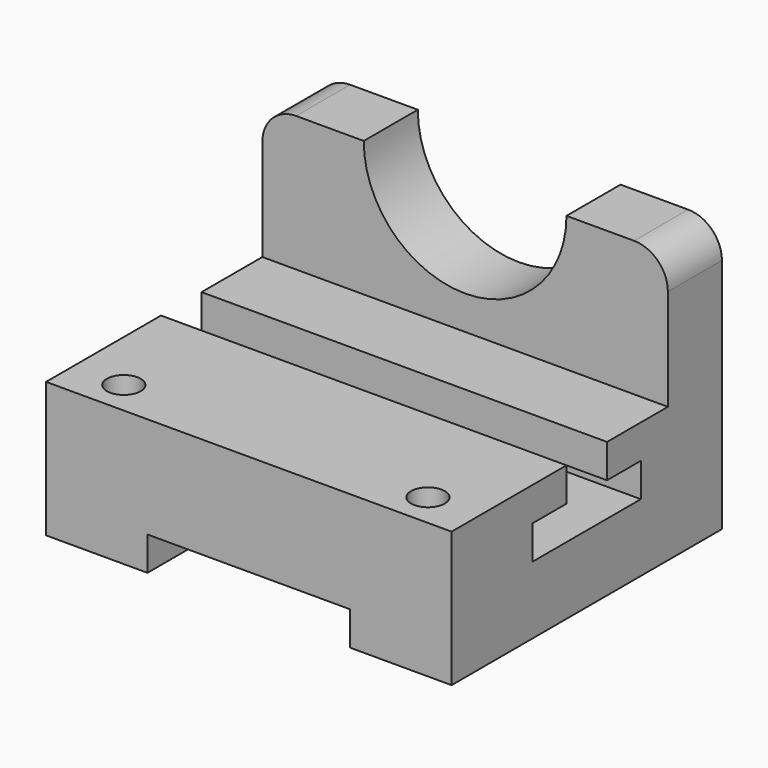
from build123d import *

# Parameters (mm, degrees)
F1_DEPTH  = 152.4
F0_W      = 25.4
F0_H      = 50.8
F2_DEPTH  = 152.4
F3_R      = 12.7
F4_R      = 12.7
F5_W      = 76.2
F5_H      = 12.7
F6_DEPTH  = 127.001
F8_DEPTH  = 152.4
F9_R      = 6.35
F10_DEPTH = 152.4


with BuildPart() as f1:
    # F0 (on Right) → F1 (new body)
    with BuildSketch(Plane.YZ):
        Polygon((-127, 0), (0, 0), (0, 50.8), (-25.4, 50.8), (-53.975, 50.8), (-53.975, 38.1), (-38.1, 38.1), (-38.1, 25.4), (-88.9, 25.4), (-88.9, 38.1), (-73.025, 38.1), (-73.025, 50.8), (-127, 50.8), align=None)
    extrude(amount=F1_DEPTH)

    # F0 (on Right) → F2 (join)
    with BuildSketch(Plane.YZ):
        with Locations((-12.7, 76.2)):
            Rectangle(F0_W, F0_H)
    extrude(amount=F2_DEPTH)

    # F3
    f3_edges = [f1.edges().sort_by_distance(p)[0] for p in [
        (0, -12.7, 101.6),
    ]]
    fillet(f3_edges, radius=F3_R)

    # F4
    f4_edges = [f1.edges().sort_by_distance(p)[0] for p in [
        (152.4, -12.7, 101.6),
    ]]
    fillet(f4_edges, radius=F4_R)

    # F5 (on Front) → F6 (cut, through all)
    with BuildSketch(Plane.XZ):
        with Locations((76.2, 6.35)):
            Rectangle(F5_W, F5_H)
    extrude(amount=F6_DEPTH, mode=Mode.SUBTRACT)

    # F7 (on face) → F8 (cut)
    with BuildSketch(Plane.XZ.offset(25.4)):
        with BuildLine():
            ThreePointArc((38.1, 101.6), (76.2, 63.5), (114.3, 101.6))
            Line((114.3, 101.6), (38.1, 101.6))
        make_face()
    extrude(amount=-F8_DEPTH, mode=Mode.SUBTRACT)

    # F9 (on face) → F10 (cut)
    with BuildSketch(Plane.XY.offset(50.8)):
        with Locations((19.05, -114.3)):
            Circle(F9_R)
        with Locations((133.35, -114.3)):
            Circle(F9_R)
    extrude(amount=-F10_DEPTH, mode=Mode.SUBTRACT)


solid = f1.part
